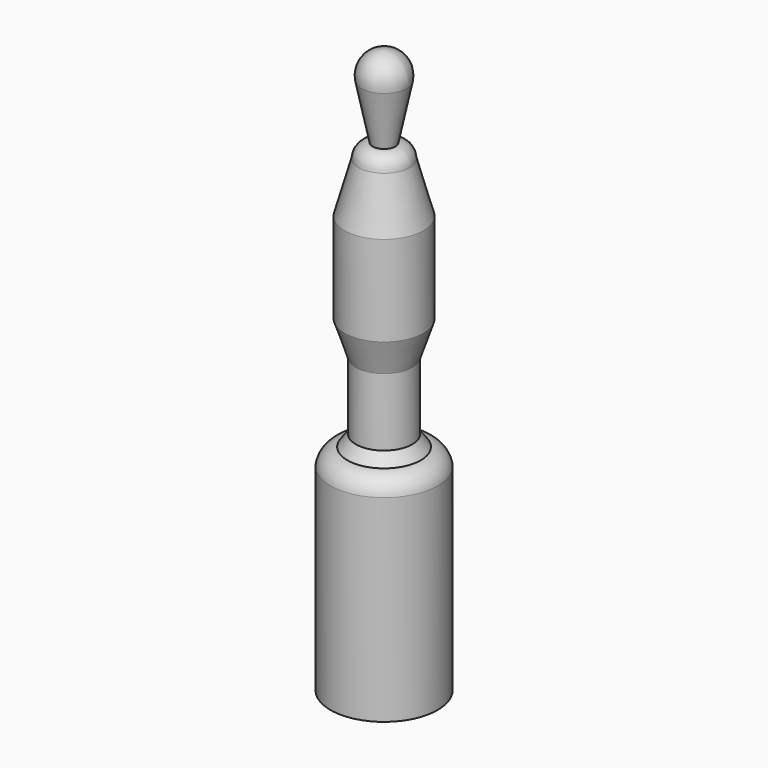
from build123d import *


with BuildPart() as f1:
    # F0 (on Front) → F1 (revolve)
    with BuildSketch(Plane.XZ):
        with BuildLine():
            Line((2, -14.5), (4, -4.807499))
            ThreePointArc((4, -4.807499), (3.15738, -1.440771), (0, 0))
            Line((0, 0), (0, -100))
            Line((0, -100), (9.5, -100))
            Line((9.5, -100), (9.5, -65))
            ThreePointArc((9.5, -65), (8.304886, -62.852633), (6, -62))
            Line((6, -62), (6.5, -62))
            Line((6.5, -62), (5, -60))
            Line((5, -60), (5, -48))
            Line((5, -48), (7, -42))
            Line((7, -42), (7, -26))
            Line((7, -26), (4.5, -17))
            ThreePointArc((4.5, -17), (3.767767, -15.232233), (2, -14.5))
        make_face()
    revolve(axis=Axis((0, 0, -50), (0, 0, -1)))


solid = f1.part
